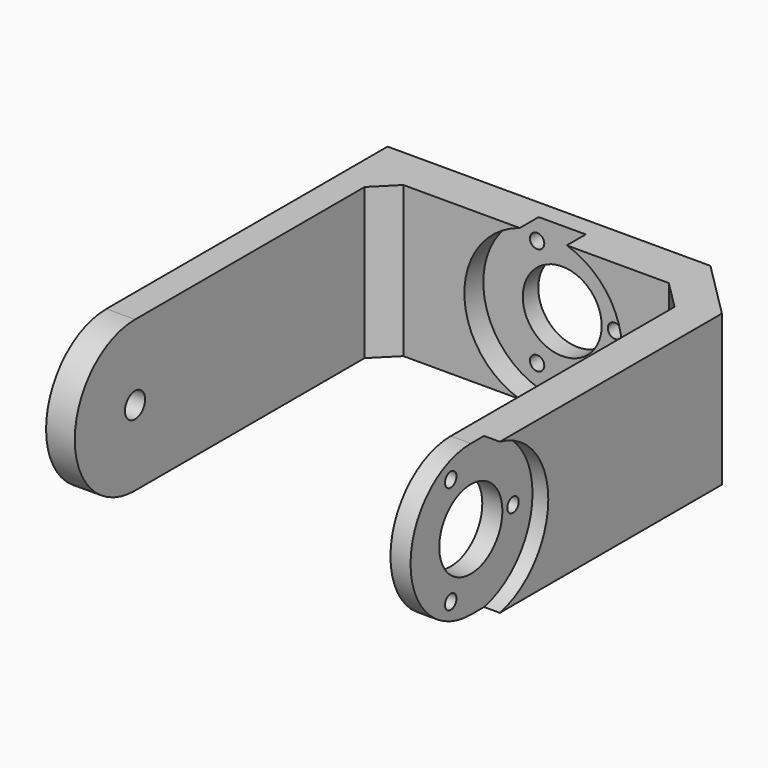
from build123d import *

# Parameters (mm, degrees)
CYLINDER055_R            = 1
CYLINDER055_DEPTH        = 20
CYLINDER055_ROLL_ANGLE   = 90
CYLINDER054_R            = 5.5
CYLINDER054_DEPTH        = 20
CYLINDER054_ROLL_ANGLE   = 90
CLONE003_PLACEMENT_ANGLE = 90
PAD001_DEPTH             = 26.5
POCKET_DEPTH             = 21.001
SKETCH003_R              = 10.75
POCKET001_DEPTH          = 2.2
SKETCH004_R              = 1.75
POCKET002_DEPTH          = 4
SKETCH005_R              = 11
POCKET003_DEPTH          = 3.3
POCKET004_DEPTH          = 21.001


with BuildPart() as servo_horn_small_drill_master:
    # Cylinder055 → Cylinder055 (new body)
    with BuildSketch(Plane.XY):
        Circle(CYLINDER055_R)
    extrude(amount=CYLINDER055_DEPTH)


with BuildPart() as servo_horn_small_drill_master_1:
    # Cylinder055 roll: moved
    add(servo_horn_small_drill_master.part.rotate(Axis((0, 0, 0), (1, 0, 0)), CYLINDER055_ROLL_ANGLE))


with BuildPart() as servo_horn_small_drill_master_2:
    # Cylinder055 placement: moved
    add(servo_horn_small_drill_master_1.part.moved(Location((-3.5, 10, 7.5))))


with BuildPart() as clone002:
    # Clone002 base: copy of servo-horn-small-drill-master
    add(servo_horn_small_drill_master_2.part)


with BuildPart() as clone002_1:
    # Clone002 placement: moved
    add(clone002.part.moved(Location((0, -4e-06, -15.000002))))


with BuildPart() as servo_shaft_drill:
    # Cylinder054 → Cylinder054 (new body)
    with BuildSketch(Plane.XY):
        Circle(CYLINDER054_R)
    extrude(amount=CYLINDER054_DEPTH)


with BuildPart() as servo_shaft_drill_1:
    # Cylinder054 roll: moved
    add(servo_shaft_drill.part.rotate(Axis((0, 0, 0), (1, 0, 0)), CYLINDER054_ROLL_ANGLE))


with BuildPart() as servo_shaft_drill_2:
    # Cylinder054 placement: moved
    add(servo_shaft_drill_1.part.moved(Location((0, 10, 0))))


with BuildPart() as servo_drills_block1_master:
    # Clone001 base: copy of servo-horn-small-drill-master
    add(servo_horn_small_drill_master_2.part)


with BuildPart() as servo_drills_block1_master_1:
    # Clone001 placement: moved
    add(servo_drills_block1_master.part.moved(Location((10.85, -2e-06, -7.500002))))

    # Fusion041: union Clone002, servo-horn-small-drill-master, servo-shaft-drill
    add(clone002_1.part)
    add(servo_horn_small_drill_master_2.part)
    add(servo_shaft_drill_2.part)


with BuildPart() as clone_of_servo_drills_block1_master:
    # Clone003 base: copy of servo-Drills-block1-master
    add(servo_drills_block1_master_1.part)


with BuildPart() as clone_of_servo_drills_block1_master_1:
    # Clone003 placement: moved
    add(clone_of_servo_drills_block1_master.part.moved(Location((22, -49, 7e-06))).rotate(Axis((22, -49, 7e-06), (0, 0, 1)), CLONE003_PLACEMENT_ANGLE))


with BuildPart() as servo_horn_drills:
    # Fusion042 base: copy of servo-Drills-block1-master
    add(servo_drills_block1_master_1.part)

    # Fusion042: union Clone of servo-Drills-block1-master
    add(clone_of_servo_drills_block1_master_1.part)


with BuildPart() as leg:
    # Sketch001 → Pad001 (new body, symmetric)
    with BuildSketch(Plane.YZ):
        with BuildLine():
            Line((-49, 10.5), (0, 10.5))
            Line((0, 10.5), (0, -10.5))
            Line((0, -10.5), (-49, -10.5))
            ThreePointArc((-49, 10.5), (-59.5, 0), (-49, -10.5))
        make_face()
    extrude(amount=PAD001_DEPTH, both=True)

    # Sketch002 → Pocket (cut, through all)
    with BuildSketch(Plane(origin=(0, 0, 10.5), x_dir=(0, -1, 0), z_dir=(0, 0, 1))):
        Polygon((64, 21.5), (10, 21.5), (6, 17.5), (6, -19.5), (9, -22.5), (64, -22.5), align=None)
    extrude(amount=-POCKET_DEPTH, mode=Mode.SUBTRACT)

    # Sketch003 → Pocket001 (cut)
    with BuildSketch(Plane.YZ.offset(26.5)):
        with Locations((-49, 0)):
            Circle(SKETCH003_R)
    extrude(amount=-POCKET001_DEPTH, mode=Mode.SUBTRACT)

    # Sketch004 → Pocket002 (cut)
    with BuildSketch(Plane(origin=(-26.5, 0, 0), x_dir=(0, 1, 0), z_dir=(-1, 0, 0))):
        with Locations((-49, 0)):
            Circle(SKETCH004_R)
    extrude(amount=-POCKET002_DEPTH, mode=Mode.SUBTRACT)

    # Sketch005 → Pocket003 (cut)
    with BuildSketch(Plane(origin=(0, -6, 0), x_dir=(0, 0, -1), z_dir=(0, -1, 0))):
        Circle(SKETCH005_R)
    extrude(amount=-POCKET003_DEPTH, mode=Mode.SUBTRACT)

    # Sketch006 → Pocket004 (cut, through all)
    with BuildSketch(Plane(origin=(0, 0, 10.5), x_dir=(0, -1, 0), z_dir=(0, 0, 1))):
        Polygon((0, 18.5), (8, 26.5), (0, 26.5), align=None)
    extrude(amount=-POCKET004_DEPTH, mode=Mode.SUBTRACT)

    # Cut070: cut Servo-horn-drills
    add(servo_horn_drills.part, mode=Mode.SUBTRACT)


solid = leg.part
